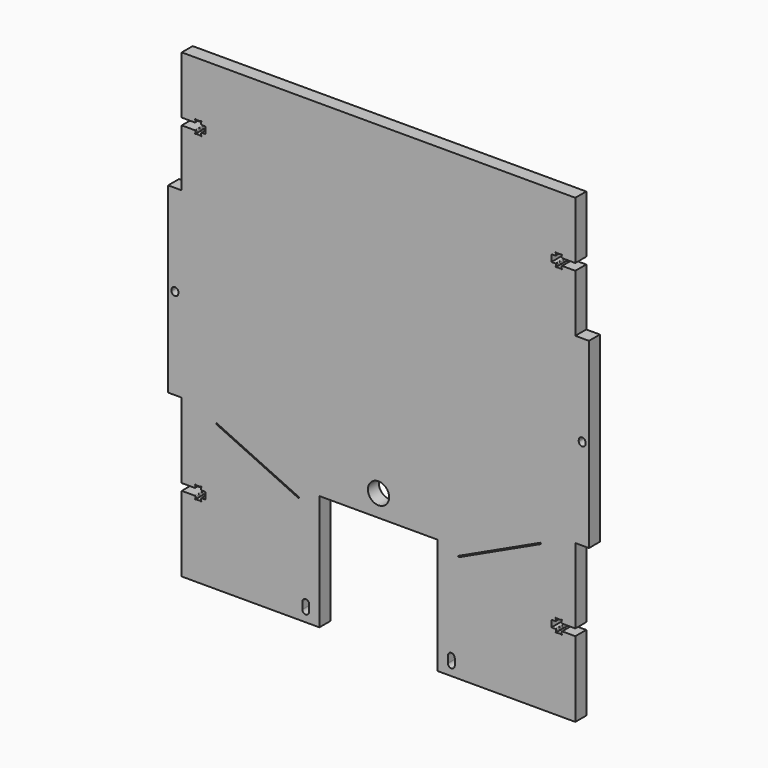
from build123d import *

# Parameters (mm, degrees)
F0_R     = 4.665
F1_DEPTH = 6


with BuildPart() as f1:
    # F0 (on Front) → F1 (new body)
    with BuildSketch(Plane.XZ):
        with BuildLine():
            Line((186.500065, 187), (13.500065, 187))
            Line((13.500065, 187), (13.500065, 161.75))
            Line((13.500065, 161.75), (19.200065, 161.75))
            ThreePointArc((19.200065, 161.75), (19.412197, 161.837868), (19.500065, 162.05))
            Line((19.500065, 162.05), (19.500065, 162.8))
            ThreePointArc((19.500065, 162.8), (19.358643, 163.141421), (19.700065, 163))
            Line((19.700065, 163), (21.800065, 163))
            ThreePointArc((21.800065, 163), (22.141486, 163.141421), (22.000065, 162.8))
            Line((22.000065, 162.8), (22.000065, 162.05))
            ThreePointArc((22.000065, 162.05), (22.087933, 161.837868), (22.300065, 161.75))
            Line((22.300065, 161.75), (24.000065, 161.75))
            Line((24.000065, 161.75), (24.000065, 158.75))
            Line((24.000065, 158.75), (22.300065, 158.75))
            ThreePointArc((22.300065, 158.75), (22.087933, 158.662132), (22.000065, 158.45))
            Line((22.000065, 158.45), (22.000065, 157.7))
            ThreePointArc((22.000065, 157.7), (22.141486, 157.358579), (21.800065, 157.5))
            Line((21.800065, 157.5), (19.700065, 157.5))
            ThreePointArc((19.700065, 157.5), (19.358643, 157.358579), (19.500065, 157.7))
            Line((19.500065, 157.7), (19.500065, 158.45))
            ThreePointArc((19.500065, 158.45), (19.412197, 158.662132), (19.200065, 158.75))
            Line((19.200065, 158.75), (13.500065, 158.75))
            Line((13.500065, 158.75), (13.500065, 133.6))
            Line((13.500065, 133.6), (7.500065, 133.6))
            Line((7.500065, 133.6), (7.500065, 133.5))
            Line((7.500065, 133.5), (7.500065, 53.5))
            Line((7.500065, 53.5), (7.500065, 53.4))
            Line((7.500065, 53.4), (13.500109, 53.4))
            Line((13.500109, 53.4), (13.500072, 20.339))
            Line((13.500072, 20.339), (19.200072, 20.339))
            ThreePointArc((19.200072, 20.339), (19.412204, 20.426868), (19.500072, 20.639))
            Line((19.500072, 20.639), (19.500072, 21.389))
            ThreePointArc((19.500072, 21.389), (19.35865, 21.730421), (19.700072, 21.589))
            Line((19.700072, 21.589), (21.800072, 21.589))
            ThreePointArc((21.800072, 21.589), (22.141493, 21.730421), (22.000072, 21.389))
            Line((22.000072, 21.389), (22.000072, 20.639))
            ThreePointArc((22.000072, 20.639), (22.08794, 20.426868), (22.300072, 20.339))
            Line((22.300072, 20.339), (24.000068, 20.339))
            Line((24.000068, 20.339), (24.000068, 17.339))
            Line((24.000068, 17.339), (22.300068, 17.339))
            ThreePointArc((22.300068, 17.339), (22.087936, 17.251132), (22.000068, 17.039))
            Line((22.000068, 17.039), (22.000068, 16.289))
            ThreePointArc((22.000068, 16.289), (22.14149, 15.947579), (21.800068, 16.089))
            Line((21.800068, 16.089), (19.700068, 16.089))
            ThreePointArc((19.700068, 16.089), (19.358647, 15.947579), (19.500068, 16.289))
            Line((19.500068, 16.289), (19.500068, 17.039))
            ThreePointArc((19.500068, 17.039), (19.4122, 17.251132), (19.200068, 17.339))
            Line((19.200068, 17.339), (13.500068, 17.339))
            Line((13.500068, 17.339), (13.500031, -15.822))
            Line((13.500031, -15.822), (74.000065, -15.822))
            Line((74.000065, -15.822), (74.000065, 0))
            Line((74.000065, 0), (74.000065, 35))
            Line((74.000065, 35), (126.000065, 35))
            Line((126.000065, 35), (126.000065, 0))
            Line((126.000065, 0), (126.000065, -15.822))
            Line((126.000065, -15.822), (186.500098, -15.822))
            Line((186.500098, -15.822), (186.500061, 17.339))
            Line((186.500061, 17.339), (180.800061, 17.339))
            ThreePointArc((180.800061, 17.339), (180.587929, 17.251132), (180.500061, 17.039))
            Line((180.500061, 17.039), (180.500061, 16.289))
            ThreePointArc((180.500061, 16.289), (180.641482, 15.947579), (180.300061, 16.089))
            Line((180.300061, 16.089), (178.200058, 16.089))
            ThreePointArc((178.200058, 16.089), (177.858636, 15.947579), (178.000058, 16.289))
            Line((178.000058, 16.289), (178.000058, 17.039))
            ThreePointArc((178.000058, 17.039), (177.91219, 17.251132), (177.700058, 17.339))
            Line((177.700058, 17.339), (176.000058, 17.339))
            Line((176.000058, 17.339), (176.000058, 20.339))
            Line((176.000058, 20.339), (177.700058, 20.339))
            ThreePointArc((177.700058, 20.339), (177.91219, 20.426868), (178.000058, 20.639))
            Line((178.000058, 20.639), (178.000058, 21.389))
            ThreePointArc((178.000058, 21.389), (177.858636, 21.730421), (178.200058, 21.589))
            Line((178.200058, 21.589), (180.300058, 21.589))
            ThreePointArc((180.300058, 21.589), (180.641479, 21.730421), (180.500058, 21.389))
            Line((180.500058, 21.389), (180.500058, 20.639))
            ThreePointArc((180.500058, 20.639), (180.587926, 20.426868), (180.800058, 20.339))
            Line((180.800058, 20.339), (186.500058, 20.339))
            Line((186.500058, 20.339), (186.500021, 53.4))
            Line((186.500021, 53.4), (192.500065, 53.4))
            Line((192.500065, 53.4), (192.500065, 53.5))
            Line((192.500065, 53.5), (192.500065, 133.5))
            Line((192.500065, 133.5), (192.500065, 133.6))
            Line((192.500065, 133.6), (186.500065, 133.6))
            Line((186.500065, 133.6), (186.500065, 158.75))
            Line((186.500065, 158.75), (180.800058, 158.75))
            ThreePointArc((180.800058, 158.75), (180.587926, 158.662132), (180.500058, 158.45))
            Line((180.500058, 158.45), (180.500058, 157.7))
            ThreePointArc((180.500058, 157.7), (180.641479, 157.358579), (180.300058, 157.5))
            Line((180.300058, 157.5), (178.200058, 157.5))
            ThreePointArc((178.200058, 157.5), (177.858636, 157.358579), (178.000058, 157.7))
            Line((178.000058, 157.7), (178.000058, 158.45))
            ThreePointArc((178.000058, 158.45), (177.91219, 158.662132), (177.700058, 158.75))
            Line((177.700058, 158.75), (176.000058, 158.75))
            Line((176.000058, 158.75), (176.000058, 161.75))
            Line((176.000058, 161.75), (177.700058, 161.75))
            ThreePointArc((177.700058, 161.75), (177.91219, 161.837868), (178.000058, 162.05))
            Line((178.000058, 162.05), (178.000058, 162.8))
            ThreePointArc((178.000058, 162.8), (177.858636, 163.141421), (178.200058, 163))
            Line((178.200058, 163), (180.300065, 163))
            ThreePointArc((180.300065, 163), (180.641486, 163.141421), (180.500065, 162.8))
            Line((180.500065, 162.8), (180.500065, 162.05))
            ThreePointArc((180.500065, 162.05), (180.587933, 161.837868), (180.800065, 161.75))
            Line((180.800065, 161.75), (186.500065, 161.75))
            Line((186.500065, 161.75), (186.500065, 187))
        make_face()
        with BuildLine():
            Line((66.500065, -11.322), (66.500065, -8.322))
            ThreePointArc((66.500065, -8.322), (68.000065, -6.822), (69.500065, -8.322))
            Line((69.500065, -8.322), (69.500065, -11.322))
            ThreePointArc((69.500065, -11.322), (68.000065, -12.822), (66.500065, -11.322))
        make_face(mode=Mode.SUBTRACT)
        Polygon((28.62622, 48.081567), (28.837529, 48.534721), (65.08984, 31.629991), (64.878531, 31.176837), align=None, mode=Mode.SUBTRACT)
        with BuildLine():
            Line((130.500065, -11.322), (130.500065, -8.322))
            ThreePointArc((130.500065, -8.322), (132.000065, -6.822), (133.500065, -8.322))
            Line((133.500065, -8.322), (133.500065, -11.322))
            ThreePointArc((133.500065, -11.322), (132.000065, -12.822), (130.500065, -11.322))
        make_face(mode=Mode.SUBTRACT)
        with Locations((100.000065, 44.5)):
            Circle(F0_R, mode=Mode.SUBTRACT)
        Polygon((135.121598, 31.176837), (134.910289, 31.629991), (171.1626, 48.534721), (171.37391, 48.081567), align=None, mode=Mode.SUBTRACT)
        with BuildLine():
            ThreePointArc((9.000065, 93.75), (10.500065, 95.25), (12.000065, 93.75))
            Line((12.000065, 93.75), (12.000065, 93.25))
            ThreePointArc((12.000065, 93.25), (10.500065, 91.75), (9.000065, 93.25))
            Line((9.000065, 93.25), (9.000065, 93.75))
        make_face(mode=Mode.SUBTRACT)
        with BuildLine():
            Line((191.000064, 93.75), (191.000064, 93.25))
            ThreePointArc((191.000064, 93.25), (189.500064, 91.75), (188.000064, 93.25))
            Line((188.000064, 93.25), (188.000064, 93.75))
            ThreePointArc((188.000064, 93.75), (189.500064, 95.25), (191.000064, 93.75))
        make_face(mode=Mode.SUBTRACT)
    extrude(amount=F1_DEPTH)


solid = f1.part
